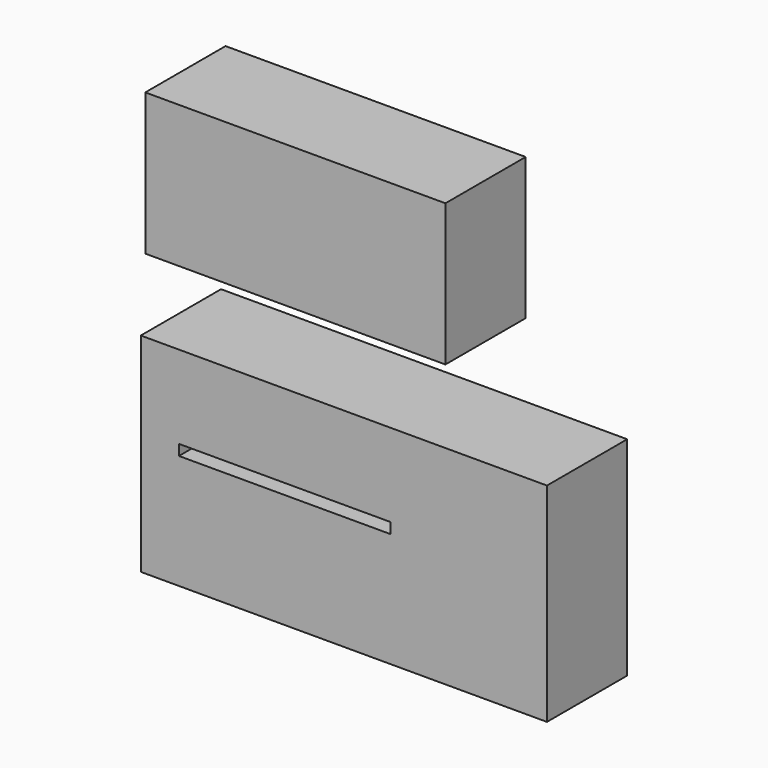
from build123d import *

# Parameters (mm, degrees)
F0_W     = 75.996622
F0_H     = 35.938587
F0_W_2   = 102.843999
F0_H_2   = 52.688204
F0_W_3   = 53.552762
F0_H_3   = 2.698936
F1_DEPTH = 25.4


with BuildPart() as f1:
    # F0 (on Front) → F1 (new body)
    with BuildSketch(Plane.XZ):
        with Locations((-8.650385, 36.59006)):
            Rectangle(F0_W, F0_H)
        with Locations((3.636912, -26.344102)):
            Rectangle(F0_W_2, F0_H_2)
        with Locations((-11.349328, -22.360582)):
            Rectangle(F0_W_3, F0_H_3, mode=Mode.SUBTRACT)
    extrude(amount=F1_DEPTH)


solid = f1.part
